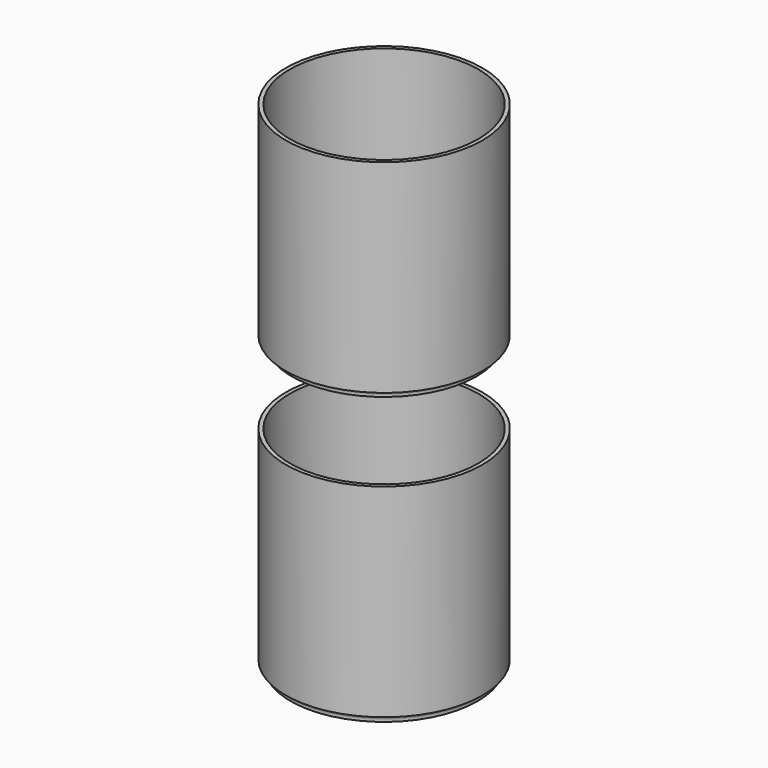
from build123d import *

# Parameters (mm, degrees)
F2_T = -3
F4_T = -3


with BuildPart() as f1:
    # F0 (on Front) → F1 (revolve)
    with BuildSketch(Plane.XZ):
        with BuildLine():
            Line((-217.8991883993, -60.755127635), (-217.8991883993, 94.244872365))
            Line((-217.8991883993, 94.244872365), (-292.8991883993, 94.244872365))
            Line((-292.8991883993, 94.244872365), (-292.8991883993, -65.755127635))
            Line((-292.8991883993, -65.755127635), (-222.3060273323, -65.755127635))
            ThreePointArc((-222.3060273323, -65.755127635), (-221.3085525164, -62.1922468676), (-217.8991883993, -60.755127635))
        make_face()
    revolve(axis=Axis((-292.8991883993, 0, 14.244872365), (0, 0, 1)))

    # F2
    f2_openings = [f1.faces().sort_by_distance(p)[0] for p in [
        (-292.899188, 0, 94.244872),
    ]]
    offset(amount=F2_T, openings=f2_openings)


with BuildPart() as f3:
    # F0 (on Front) → F3 (revolve)
    with BuildSketch(Plane.XZ):
        with BuildLine():
            Line((-217.8991883993, -278.7027198076), (-217.8991883993, -123.7027198076))
            Line((-217.8991883993, -123.7027198076), (-292.8991883993, -123.7027198076))
            Line((-292.8991883993, -123.7027198076), (-292.8991883993, -283.7027198076))
            Line((-292.8991883993, -283.7027198076), (-221.475007263, -283.7027198076))
            ThreePointArc((-221.475007263, -283.7027198076), (-220.7536117958, -280.439987657), (-217.8991883993, -278.7027198076))
        make_face()
    revolve(axis=Axis((-292.8991883993, 0, -203.7027198076), (0, 0, 1)))

    # F4
    f4_openings = [f3.faces().sort_by_distance(p)[0] for p in [
        (-292.899188, 0, -123.70272),
    ]]
    offset(amount=F4_T, openings=f4_openings)


solid = Compound([f1.part, f3.part])
